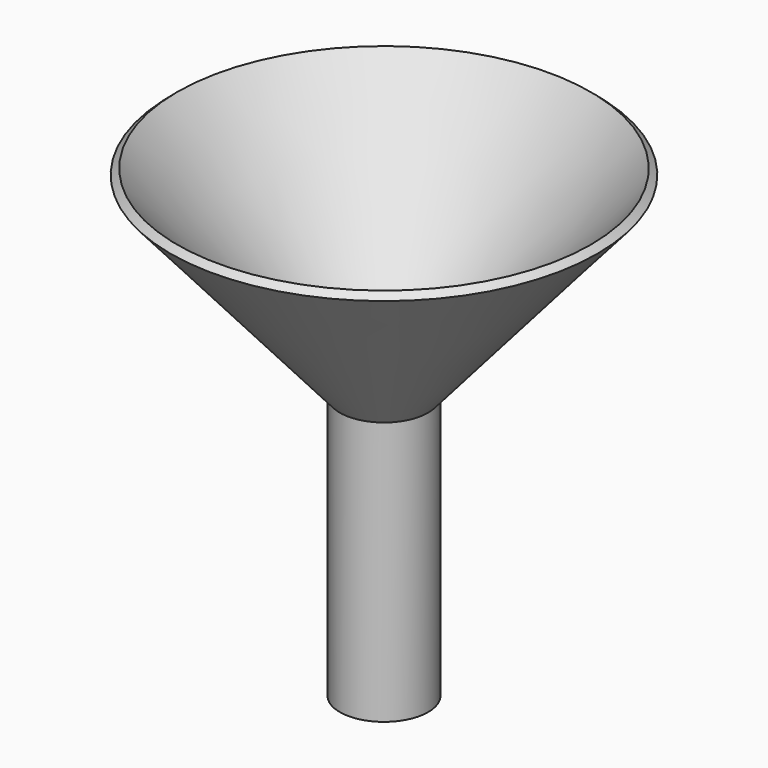
from build123d import *

# Parameters (mm, degrees)
F2_R     = 10.7682779898
F3_DEPTH = 25.4
F4_DEPTH = 25.4
F5_DEPTH = 25.4


with BuildPart() as f1:
    # F0 (on Front) → F1 (revolve)
    with BuildSketch(Plane.XZ):
        Polygon((0, -75.7813751698), (0, 0), (48.6775934706, 56.0841891061), (46.7580937851, 57.7373997368), (-2.9694908299, 0), (-12.7, 0), (-12.7, -75.7813751698), align=None)
    revolve(axis=Axis((-12.7, 0, -37.8906875849), (0, 0, 1)))

    # F2 (on face) → F3 (cut)
    with BuildSketch(Plane(origin=(0, 0, -75.7813751698), x_dir=(1, 0, 0), z_dir=(0, 0, -1))):
        with Locations((-12.7, 0)):
            Circle(F2_R)
    extrude(amount=-F3_DEPTH, mode=Mode.SUBTRACT)

    # F4 (cut): a face of the model
    f4_faces = [f1.faces().sort_by_distance(p)[0] for p in [
        (-12.7, 0, -50.3813751698),
    ]]
    extrude(f4_faces, amount=-F4_DEPTH, mode=Mode.SUBTRACT)

    # F5 (cut): a face of the model
    f5_faces = [f1.faces().sort_by_distance(p)[0] for p in [
        (-12.7, 0, -24.9813751698),
    ]]
    extrude(f5_faces, amount=-F5_DEPTH, mode=Mode.SUBTRACT)


solid = f1.part
